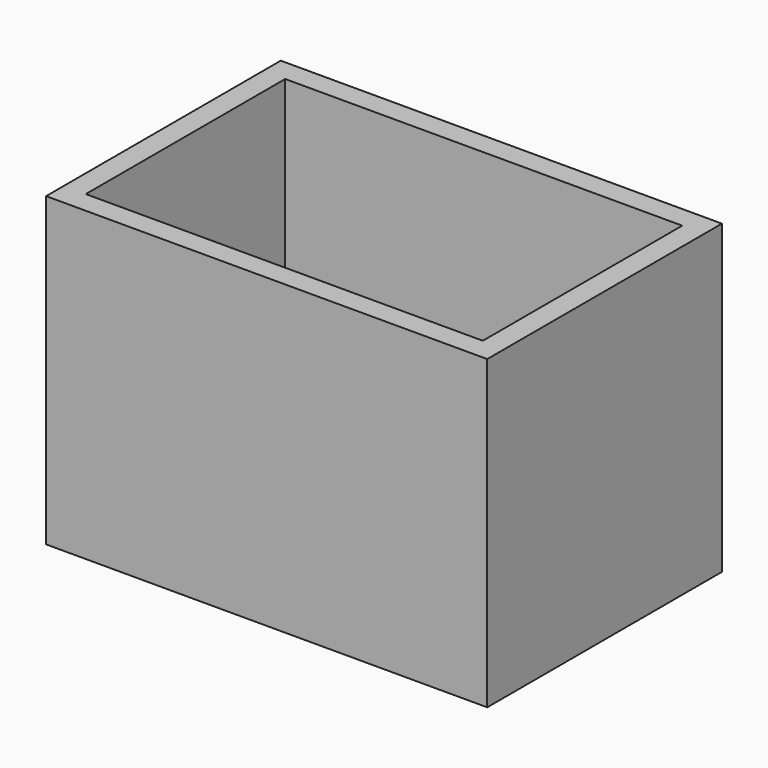
from build123d import *

# Parameters (mm, degrees)
F0_W     = 50.8
F0_H     = 33.782
F1_DEPTH = 35.306
F2_T     = -2.54
F3_R     = 14.351
F4_DEPTH = 25.4


with BuildPart() as f1:
    # F0 (on Top) → F1 (new body)
    with BuildSketch(Plane.XY):
        Rectangle(F0_W, F0_H)
    extrude(amount=F1_DEPTH)

    # F2
    f2_openings = [f1.faces().sort_by_distance(p)[0] for p in [
        (0, 0, 35.306),
    ]]
    offset(amount=F2_T, openings=f2_openings)

    # F3 (on face) → F4 (cut)
    with BuildSketch(Plane(origin=(0, 0, 0), x_dir=(1, 0, 0), z_dir=(0, 0, -1))):
        Circle(F3_R)
    extrude(amount=-F4_DEPTH, mode=Mode.SUBTRACT)


solid = f1.part
